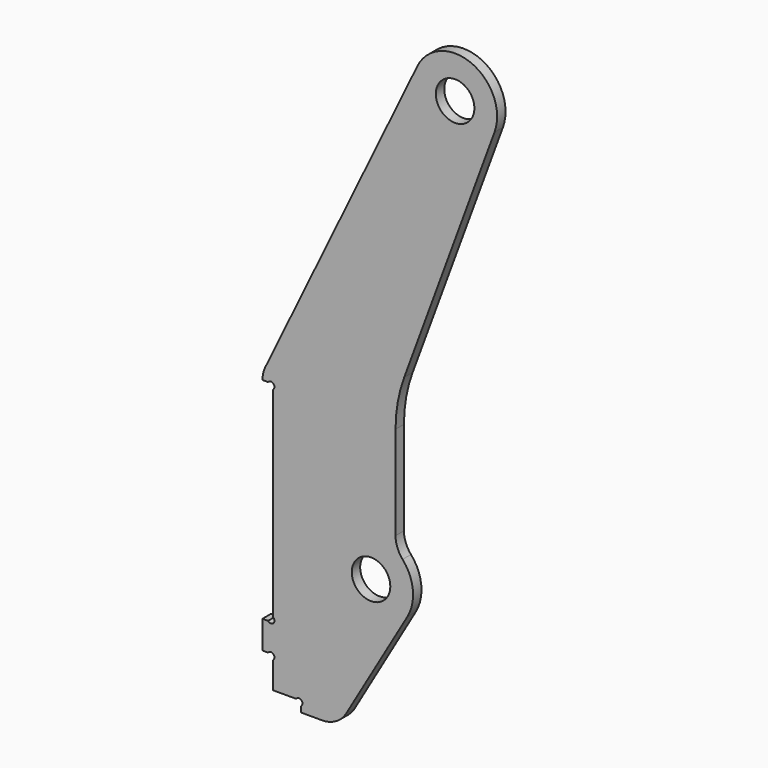
from build123d import *

# Parameters (mm, degrees)
F0_R     = 8.73125
F1_DEPTH = 4.7625
F2_W     = 4.7625
F2_H     = 12.7
F3_DEPTH = 4.7625
F4_R     = 1.5875
F5_DEPTH = 4.7635


with BuildPart() as f1:
    # F0 (on Front) → F1 (new body)
    with BuildSketch(Plane.XZ):
        with BuildLine():
            Line((-49.2125, 63.5), (-44.45, 63.5))
            Line((-44.45, 63.5), (-44.45, -58.7375))
            Line((-44.45, -58.7375), (-31.75, -58.7375))
            Line((-31.75, -58.7375), (-31.75, -63.5))
            Line((-31.75, -63.5), (-22.225, -63.5))
            ThreePointArc((-22.225, -63.5), (-15.894715, -61.809881), (-11.249301, -57.189368))
            Line((-11.249301, -57.189368), (16.463549, -9.584053))
            ThreePointArc((16.463549, -9.584053), (18.959012, 1.85967), (14.2875, 12.600391))
            ThreePointArc((14.2875, 12.600391), (11.932738, 16.510523), (11.1125, 21.000651))
            Line((11.1125, 21.000651), (11.1125, 63.5))
            ThreePointArc((11.1125, 63.5), (12.098669, 74.647689), (15.026546, 85.449126))
            Line((15.026546, 85.449126), (55.975786, 196.615262))
            ThreePointArc((55.975786, 196.615262), (45.548054, 220.733653), (20.950146, 211.493672))
            Line((20.950146, 211.493672), (-47.945736, 69.029115))
            ThreePointArc((-47.945736, 69.029115), (-48.891759, 66.336186), (-49.2125, 63.5))
        make_face()
        Circle(F0_R, mode=Mode.SUBTRACT)
        with Locations((38.1, 203.2)):
            Circle(F0_R, mode=Mode.SUBTRACT)
    extrude(amount=F1_DEPTH)

    # F2 (on Front) → F3 (join, through all)
    with BuildSketch(Plane.XZ):
        with Locations((-46.83125, -38.1)):
            Rectangle(F2_W, F2_H)
    extrude(amount=F3_DEPTH)

    # F4 (on Front) → F5 (cut, through all)
    with BuildSketch(Plane.XZ):
        with Locations((-45.392927, 62.557073)):
            Circle(F4_R)
        with Locations((-32.692927, -59.680427)):
            Circle(F4_R)
        with Locations((-45.392927, -45.392927)):
            Circle(F4_R)
        with Locations((-45.392927, -30.807073)):
            Circle(F4_R)
    extrude(amount=F5_DEPTH, mode=Mode.SUBTRACT)


solid = f1.part
